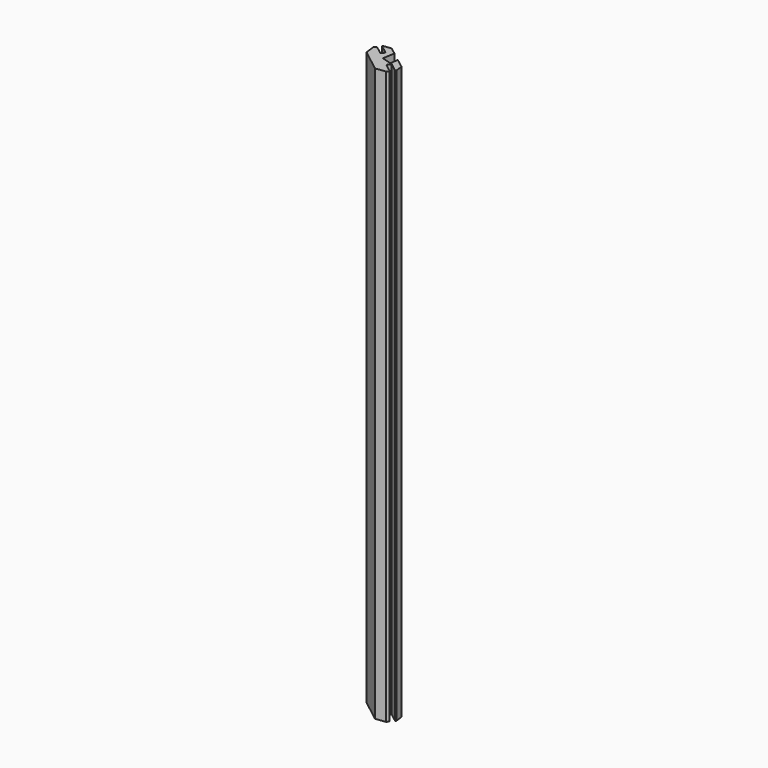
from build123d import *

# Parameters (mm, degrees)
PAD_DEPTH = 270


with BuildPart() as part:
    # Sketch → Pad (new body)
    with BuildSketch(Plane.XY.offset(-458)):
        Polygon((212.856822, 82.967677), (213.717545, 84.06579), (217.886719, 80.797905), (219.106384, 82.400215), (214.944962, 85.586205), (215.26384, 85.984787), (218.771362, 86.431206), (222.094493, 83.872208), (221.12439, 78.232742), (225.725278, 76.87084), (226.231842, 80.657478), (230.660202, 77.31823), (231.115021, 73.836044), (230.812088, 73.413544), (226.654388, 76.597336), (225.42131, 75.008892), (229.506458, 71.832669), (228.64251, 70.721488), (223.935706, 70.128285), (213.440788, 78.259719), align=None)
    extrude(amount=PAD_DEPTH)


solid = part.part
